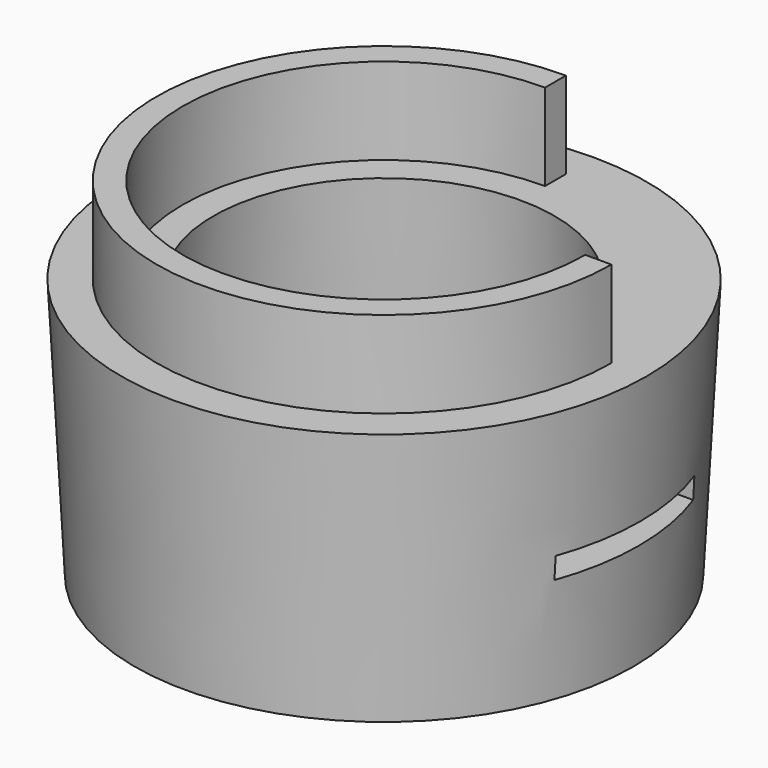
from build123d import *

# Parameters (mm, degrees)
F0_R     = 73.025
F0_R_2   = 53.975
F1_DEPTH = 76.2
F1_TAPER = -3
F2_R     = 66.6115
F2_R_2   = 58.9534
F3_DEPTH = 25.4
F5_DEPTH = 25.4
F6_W     = 50.8
F6_H     = 6.35
F7_DEPTH = 127


with BuildPart() as f1:
    # F0 (on Top) → F1 (new body)
    with BuildSketch(Plane.XY):
        Circle(F0_R)
        Circle(F0_R_2, mode=Mode.SUBTRACT)
    extrude(amount=F1_DEPTH, taper=F1_TAPER)

    # F6 (on Right) → F7 (cut, symmetric)
    with BuildSketch(Plane.YZ):
        with Locations((0, 34.925)):
            Rectangle(F6_W, F6_H)
    extrude(amount=F7_DEPTH, both=True, mode=Mode.SUBTRACT)


with BuildPart() as f3:
    # F2 (on face) → F3 (new body)
    with BuildSketch(Plane.XY.offset(76.2)):
        Circle(F2_R)
        Circle(F2_R_2, mode=Mode.SUBTRACT)
    extrude(amount=F3_DEPTH)

    # F4 (on face) → F5 (cut)
    with BuildSketch(Plane.XY.offset(101.6)):
        with BuildLine():
            ThreePointArc((0, 58.9534), (41.686348914, 41.686348914), (58.9534, 0))
            Line((58.9534, 0), (66.6115, 0))
            ThreePointArc((66.6115, 0), (47.101443355, 47.101443355), (0, 66.6115))
            Line((0, 66.6115), (0, 58.9534))
        make_face()
    extrude(amount=-F5_DEPTH, mode=Mode.SUBTRACT)


solid = Compound([f1.part, f3.part])
